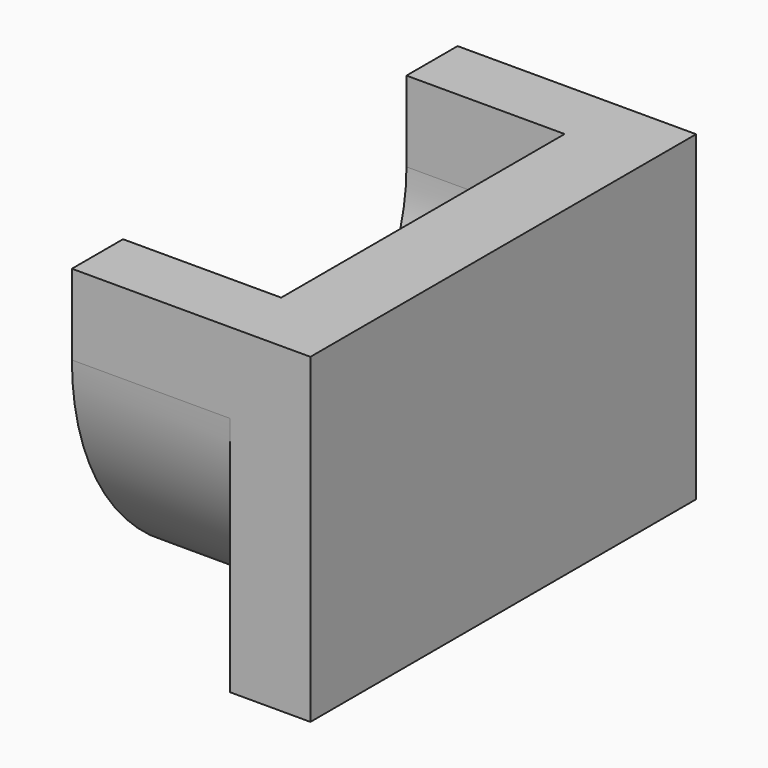
from build123d import *

# Parameters (mm, degrees)
F0_W     = 6.35
F0_H     = 38.1
F1_DEPTH = 25.4
F3_DEPTH = 12.5


with BuildPart() as f1:
    # F0 (on Top) → F1 (new body)
    with BuildSketch(Plane.XY):
        with Locations((-3.175, 0)):
            Rectangle(F0_W, F0_H)
    extrude(amount=F1_DEPTH)

    # F2 (on face) → F3 (join)
    with BuildSketch(Plane(origin=(-6.35, 0, 0), x_dir=(0, -1, 0), z_dir=(-1, 0, 0))):
        with BuildLine():
            Line((-19.05, 25.4), (-19.05, 19.05))
            ThreePointArc((-19.05, 19.05), (0, 0), (19.05, 19.05))
            Line((19.05, 19.05), (19.05, 25.4))
            Line((19.05, 25.4), (14, 25.4))
            Line((14, 25.4), (14, 19.05))
            ThreePointArc((14, 19.05), (0, 5.05), (-14, 19.05))
            Line((-14, 19.05), (-14, 25.4))
            Line((-14, 25.4), (-19.05, 25.4))
        make_face()
    extrude(amount=F3_DEPTH)


solid = f1.part
